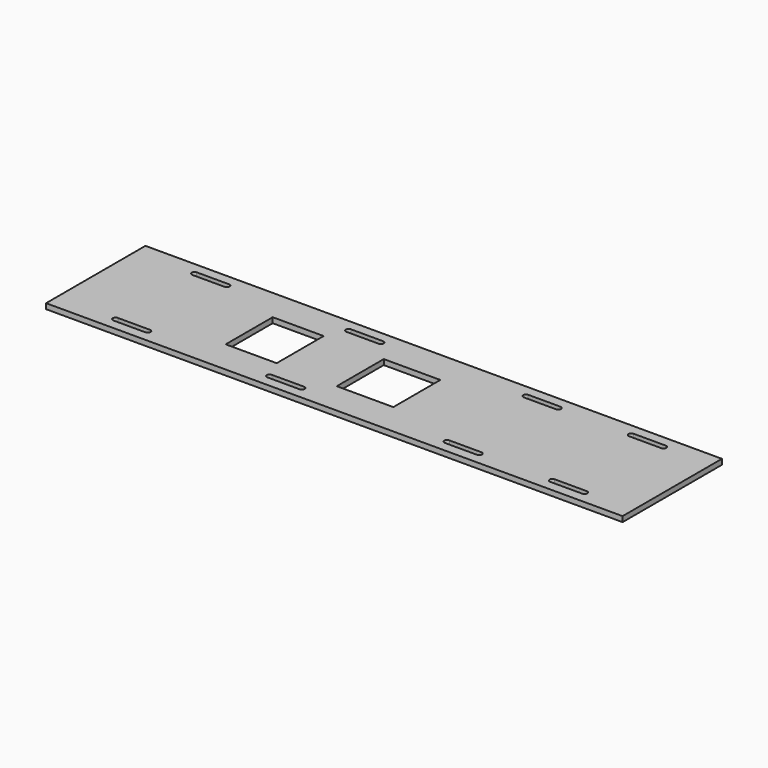
from build123d import *

# Parameters (mm, degrees)
F0_W     = 25.5
F0_H     = 26.5
F0_W_2   = 23
F1_DEPTH = 2.4


with BuildPart() as f1:
    # F0 (on Top) → F1 (new body)
    with BuildSketch(Plane.XY):
        Polygon((109.5, -28), (130, -28), (130, 28), (109.5, 28), (-35, 28), (-61, 28), (-104.5, 28), (-130, 28), (-130, -28), (-104.5, -28), (-35, -28), (-10.5, -28), (62, -28), align=None)
        with BuildLine():
            Line((-88.75, -23.5), (-103.25, -23.5))
            ThreePointArc((-103.25, -23.5), (-104.133883, -23.133883), (-104.5, -22.25))
            ThreePointArc((-104.5, -22.25), (-104.133883, -21.366117), (-103.25, -21))
            Line((-103.25, -21), (-88.75, -21))
            ThreePointArc((-88.75, -21), (-87.866117, -21.366117), (-87.5, -22.25))
            ThreePointArc((-87.5, -22.25), (-87.866117, -23.133883), (-88.75, -23.5))
        make_face(mode=Mode.SUBTRACT)
        with BuildLine():
            Line((-19.25, -23.5), (-33.75, -23.5))
            ThreePointArc((-33.75, -23.5), (-34.633883, -23.133883), (-35, -22.25))
            ThreePointArc((-35, -22.25), (-34.633883, -21.366117), (-33.75, -21))
            Line((-33.75, -21), (-19.25, -21))
            ThreePointArc((-19.25, -21), (-18.366117, -21.366117), (-18, -22.25))
            ThreePointArc((-18, -22.25), (-18.366117, -23.133883), (-19.25, -23.5))
        make_face(mode=Mode.SUBTRACT)
        with BuildLine():
            ThreePointArc((62, -22.25), (61.633883, -23.133883), (60.75, -23.5))
            Line((60.75, -23.5), (46.25, -23.5))
            ThreePointArc((46.25, -23.5), (45.366117, -23.133883), (45, -22.25))
            ThreePointArc((45, -22.25), (45.366117, -21.366117), (46.25, -21))
            Line((46.25, -21), (60.75, -21))
            ThreePointArc((60.75, -21), (61.633883, -21.366117), (62, -22.25))
        make_face(mode=Mode.SUBTRACT)
        with BuildLine():
            ThreePointArc((109.5, -22.25), (109.133883, -23.133883), (108.25, -23.5))
            Line((108.25, -23.5), (93.75, -23.5))
            ThreePointArc((93.75, -23.5), (92.866117, -23.133883), (92.5, -22.25))
            ThreePointArc((92.5, -22.25), (92.866117, -21.366117), (93.75, -21))
            Line((93.75, -21), (108.25, -21))
            ThreePointArc((108.25, -21), (109.133883, -21.366117), (109.5, -22.25))
        make_face(mode=Mode.SUBTRACT)
        with Locations((2.25, -0.25)):
            Rectangle(F0_W, F0_H, mode=Mode.SUBTRACT)
        with Locations((-49.5, 0.25)):
            Rectangle(F0_W_2, F0_H, mode=Mode.SUBTRACT)
        with BuildLine():
            ThreePointArc((-104.5, 22.25), (-104.133883, 23.133883), (-103.25, 23.5))
            Line((-103.25, 23.5), (-88.5, 23.5))
            ThreePointArc((-88.5, 23.5), (-87.792893, 23.207107), (-87.5, 22.5))
            Line((-87.5, 22.5), (-87.5, 22.25))
            ThreePointArc((-87.5, 22.25), (-87.866117, 21.366117), (-88.75, 21))
            Line((-88.75, 21), (-103.25, 21))
            ThreePointArc((-103.25, 21), (-104.133883, 21.366117), (-104.5, 22.25))
        make_face(mode=Mode.SUBTRACT)
        with BuildLine():
            ThreePointArc((-35, 22.25), (-34.633883, 23.133883), (-33.75, 23.5))
            Line((-33.75, 23.5), (-19.25, 23.5))
            ThreePointArc((-19.25, 23.5), (-18.366117, 23.133883), (-18, 22.25))
            ThreePointArc((-18, 22.25), (-18.366117, 21.366117), (-19.25, 21))
            Line((-19.25, 21), (-33.75, 21))
            ThreePointArc((-33.75, 21), (-34.633883, 21.366117), (-35, 22.25))
        make_face(mode=Mode.SUBTRACT)
        with BuildLine():
            Line((46.25, 23.5), (60.75, 23.5))
            ThreePointArc((60.75, 23.5), (61.633883, 23.133883), (62, 22.25))
            ThreePointArc((62, 22.25), (61.633883, 21.366117), (60.75, 21))
            Line((60.75, 21), (46.25, 21))
            ThreePointArc((46.25, 21), (45.366117, 21.366117), (45, 22.25))
            ThreePointArc((45, 22.25), (45.366117, 23.133883), (46.25, 23.5))
        make_face(mode=Mode.SUBTRACT)
        with BuildLine():
            Line((93.75, 23.5), (108.25, 23.5))
            ThreePointArc((108.25, 23.5), (109.133883, 23.133883), (109.5, 22.25))
            ThreePointArc((109.5, 22.25), (109.133883, 21.366117), (108.25, 21))
            Line((108.25, 21), (93.75, 21))
            ThreePointArc((93.75, 21), (92.866117, 21.366117), (92.5, 22.25))
            ThreePointArc((92.5, 22.25), (92.866117, 23.133883), (93.75, 23.5))
        make_face(mode=Mode.SUBTRACT)
    extrude(amount=F1_DEPTH)


solid = f1.part
